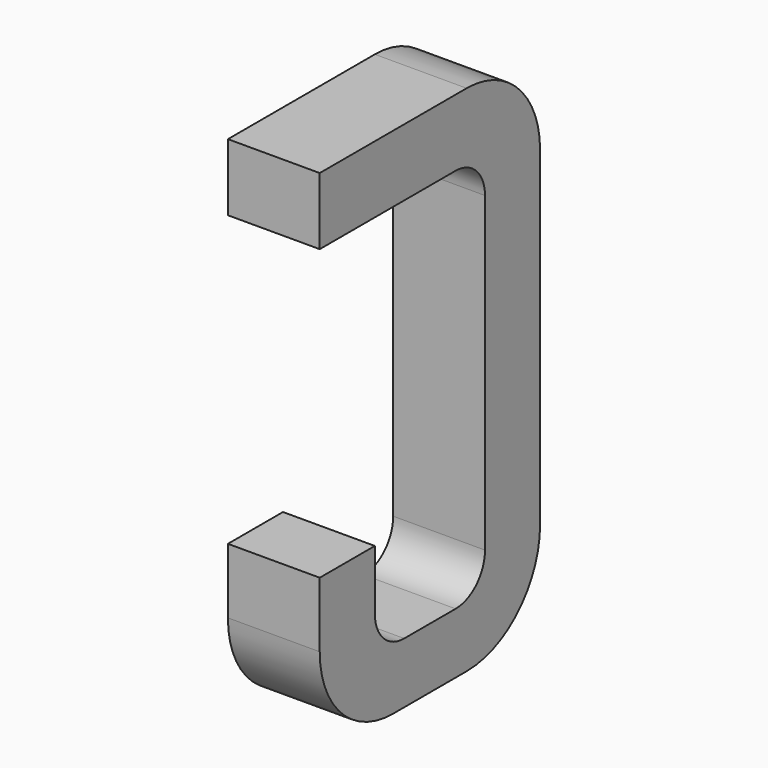
from build123d import *

# Parameters (mm, degrees)
BOX111_W     = 0.5
BOX111_H     = 1.5
BOX111_DEPTH = 2.795
FILLET285_R  = 0.5
FILLET238_R  = 0.5
FILLET295_R  = 0.5
BOX109_W     = 0.75
BOX109_H     = 2.1
BOX109_DEPTH = 1
FILLET297_R  = 0.2
FILLET242_R  = 0.2
FILLET293_R  = 0.2
FILLET294_R  = 0.2
BOX112_W     = 1
BOX112_H     = 1.575
BOX112_DEPTH = 3


with BuildPart() as part:
    # Box111 → Box111 (join)
    with BuildSketch(Plane(origin=(-0.25, 11.125, 0), x_dir=(1, 0, 0), z_dir=(0, 0, 1))):
        with Locations((0.25, 0.75)):
            Rectangle(BOX111_W, BOX111_H)
    extrude(amount=BOX111_DEPTH)

    # Fillet285
    fillet285_edges = [part.edges().sort_by_distance(p)[0] for p in [
        (0, 12.625, 0),
    ]]
    fillet(fillet285_edges, radius=FILLET285_R)

    # Fillet238
    fillet238_edges = [part.edges().sort_by_distance(p)[0] for p in [
        (0, 12.625, 2.795),
    ]]
    fillet(fillet238_edges, radius=FILLET238_R)

    # Fillet295
    fillet295_edges = [part.edges().sort_by_distance(p)[0] for p in [
        (0, 11.125, 0),
    ]]
    fillet(fillet295_edges, radius=FILLET295_R)

    # Box109 → Box109 (cut)
    with BuildSketch(Plane(origin=(-0.5, 11.5, 0.33), x_dir=(0, 1, 0), z_dir=(1, 0, 0))):
        with Locations((0.375, 1.05)):
            Rectangle(BOX109_W, BOX109_H)
    extrude(amount=BOX109_DEPTH, mode=Mode.SUBTRACT)

    # Fillet297
    fillet297_edges = [part.edges().sort_by_distance(p)[0] for p in [
        (0, 11.5, 0.33),
    ]]
    fillet(fillet297_edges, radius=FILLET297_R)

    # Fillet242
    fillet242_edges = [part.edges().sort_by_distance(p)[0] for p in [
        (0, 12.25, 0.33),
    ]]
    fillet(fillet242_edges, radius=FILLET242_R)

    # Fillet293
    fillet293_edges = [part.edges().sort_by_distance(p)[0] for p in [
        (0, 11.5, 2.43),
    ]]
    fillet(fillet293_edges, radius=FILLET293_R)

    # Fillet294
    fillet294_edges = [part.edges().sort_by_distance(p)[0] for p in [
        (0, 12.25, 2.43),
    ]]
    fillet(fillet294_edges, radius=FILLET294_R)

    # Box112 → Box112 (cut)
    with BuildSketch(Plane(origin=(-1, 11, 0.855), x_dir=(0, 1, 0), z_dir=(1, 0, 0))):
        with Locations((0.5, 0.7875)):
            Rectangle(BOX112_W, BOX112_H)
    extrude(amount=BOX112_DEPTH, mode=Mode.SUBTRACT)


with BuildPart() as part_1:
    # Body042 placement: moved
    add(part.part.moved(Location((3.81, 0, 0))))


solid = part_1.part
